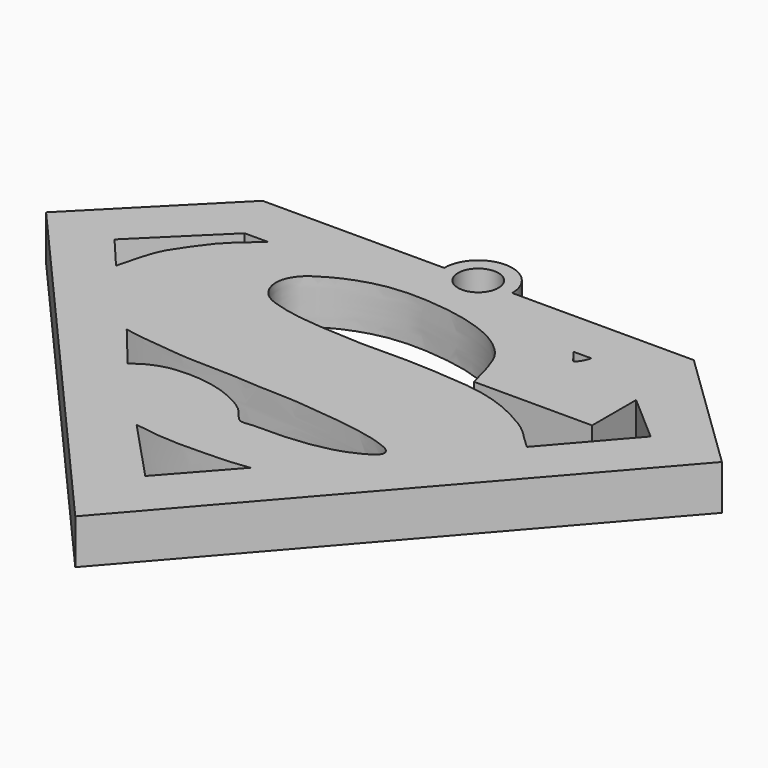
from build123d import *

# Parameters (mm, degrees)
F0_R     = 2.2576267775
F1_DEPTH = 5


with BuildPart() as f1:
    # F0 (on Top) → F1 (new body)
    with BuildSketch(Plane.XY):
        with BuildLine():
            Line((6.2416201977, 31.5617248416), (-14.0290652746, 31.5617248416))
            Line((-14.0290652746, 31.5617248416), (-27.4120289832, 18.0726386607))
            Line((-27.4120289832, 18.0726386607), (10.4407984763, -25.1697301865))
            Line((10.4407984763, -25.1697301865), (48.0529391432, 18.0726386607))
            Line((48.0529391432, 18.0726386607), (34.1237597167, 31.5617248416))
            Line((34.1237597167, 31.5617248416), (13.8530742445, 31.5617248416))
            ThreePointArc((13.8530742445, 31.5617248416), (10.0473472211, 35.367451865), (6.2416201977, 31.5617248416))
        make_face()
        with BuildLine():
            Line((10.4495981851, -15.4107843611), (3.8024990354, -8.3144679666))
            add(Edge.make_bspline(
                [(3.8024990354, -8.3144679666), (4.5388525479, -8.4434853788), (6.0017466244, -8.6998008645), (8.1808015913, -8.8204010529), (10.3603455405, -8.8738762452), (12.6471237286, -8.7657708903), (14.9715595522, -8.6928871388), (16.1087283844, -8.5376584101), (16.62851125, -8.4667056799)],
                knots=[0, 0, 0, 0, 0.1703340878, 0.3383982337, 0.5062689985, 0.6799633985, 0.8537160559, 1, 1, 1, 1], degree=3))
            Line((16.62851125, -8.4667056799), (10.4495981851, -15.4107843611))
        make_face(mode=Mode.SUBTRACT)
        with BuildLine():
            Line((-4.0244182257, 0.2222545096), (-8.1030912697, 5.1917787641))
            add(Edge.make_bspline(
                [(-4.0244182257, 0.2222545096), (-3.625658189, 0.5142425509), (-2.786447975, 1.1287458211), (-1.0438231936, 1.8265306525), (0.7796151068, 1.9863799527), (2.5631386429, 1.9826181285), (4.9769877547, 1.5871011918), (7.0085701539, 0.761001999), (9.1115561882, -0.4117692093), (10.2123278392, -2.3795693923), (11.6429532771, -2.0179142677), (13.8251670703, -2.1139244116), (16.6814734453, -1.9699325305), (19.4763866153, -1.5199292102), (21.3487185777, -0.9547792768), (23.1248059754, -0.0926462771), (24.1694847672, 0.7178249148), (23.8751481027, 1.6259996326), (22.5116239347, 2.1768508565), (20.4553720533, 2.7899755773), (17.8890842369, 3.1437375086), (15.9958690356, 3.4237094736), (13.4017905981, 3.5924153589), (11.8439583619, 3.8853753382), (8.4735381437, 3.8498269187), (6.127624439, 4.1486578732), (3.1704436033, 4.1857612974), (1.2352043919, 4.2815037412), (-1.1502078474, 4.2706620326), (-2.9236947786, 4.5924437407), (-5.9247929393, 4.7919012508), (-7.4116149528, 5.0648421429), (-8.1030912697, 5.1917787641)],
                knots=[0, 0, 0, 0, 0.0285870786, 0.0601629205, 0.0913262945, 0.1223715851, 0.1583285576, 0.1929466016, 0.2290428932, 0.2615889441, 0.2871650266, 0.3213743991, 0.3611925572, 0.4001331492, 0.4327134867, 0.465511224, 0.4904782274, 0.5098646056, 0.5370482348, 0.5716662781, 0.6087840215, 0.6415826541, 0.6780585629, 0.7080712428, 0.7497700391, 0.7866937351, 0.8258395561, 0.8587737281, 0.8937346116, 0.9254413223, 0.9653249956, 1, 1, 1, 1], degree=3))
        make_face(mode=Mode.SUBTRACT)
        with BuildLine():
            Line((-16.3511764258, 14.0089178458), (-19.5537097752, 17.8035162389))
            Line((-19.5537097752, 17.8035162389), (-11.4262718707, 25.7963947952))
            Line((-11.4262718707, 25.7963947952), (-8.8158035651, 25.7963947952))
            add(Edge.make_bspline(
                [(-8.8158035651, 25.7963947952), (-9.3488613218, 25.3430988782), (-10.4352856578, 24.4192370464), (-12.1424780218, 22.8053627528), (-13.3220857636, 21.1630094294), (-14.905105684, 18.9483248498), (-15.6122148319, 16.9733115582), (-16.0901476759, 15.056052083), (-16.3511764258, 14.0089178458)],
                knots=[0, 0, 0, 0, 0.1580633229, 0.3221486573, 0.4778136005, 0.653584254, 0.8108008891, 1, 1, 1, 1], degree=3))
        make_face(mode=Mode.SUBTRACT)
        with Locations((10.0473472211, 31.5617248416)):
            Circle(F0_R, mode=Mode.SUBTRACT)
        with BuildLine():
            Line((34.9029637873, 16.3932777941), (34.9029637873, 22.5380454212))
            Line((34.9029637873, 22.5380454212), (40.1889090877, 17.9403389704))
            Line((40.1889090877, 17.9403389704), (32.9911380048, 9.6651207423))
            add(Edge.make_bspline(
                [(21.7173155397, 16.3932777941), (21.633658482, 16.7414224911), (21.4325995016, 17.5781435005), (20.7875471199, 19.844958704), (19.9788354707, 21.7437591395), (18.260415103, 23.2418628334), (16.5912685479, 24.1861831122), (14.6715829124, 24.8773880597), (12.5371112605, 25.4339884136), (10.3228330993, 25.7196616801), (8.2696282036, 25.8909786244), (6.6273850691, 25.8916584449), (4.2095493548, 25.6981604375), (1.7289573601, 24.9599615814), (0.0154394962, 24.2119437998), (-1.3668529894, 23.4203554787), (-2.6217371087, 22.5607800789), (-3.5315941175, 21.032944398), (-3.493504558, 19.3201589904), (-2.4361340124, 17.6174817053), (-0.2220439193, 16.8757122661), (2.4030601087, 16.3170412667), (5.8920938844, 16.0586014998), (10.2285420637, 15.8120766263), (14.3169673141, 15.9742130999), (18.2003782442, 15.7616454718), (23.0387254828, 15.4526126587), (26.3020251149, 14.4110358307), (28.5292958006, 13.3164945696), (30.6255789149, 12.0714926154), (32.0218870492, 10.534071043), (32.6950954228, 9.9305280542), (32.9911380048, 9.6651207423)],
                knots=[0, 0, 0, 0, 0.0237772484, 0.0571455589, 0.0887937984, 0.1211278777, 0.1513708642, 0.1823442854, 0.2147961721, 0.2476186194, 0.2786485216, 0.3065234311, 0.3404224699, 0.3757693845, 0.4055749079, 0.432824509, 0.4595869888, 0.4879601221, 0.5158377145, 0.5454842581, 0.5781079745, 0.6138273891, 0.6546641851, 0.7003726608, 0.7443609462, 0.7876681578, 0.8357502087, 0.8760206998, 0.9101279972, 0.9441647578, 0.9754465186, 1, 1, 1, 1], degree=3))
            Line((21.7173155397, 16.3932777941), (34.9029637873, 16.3932777941))
        make_face(mode=Mode.SUBTRACT)
        with BuildLine():
            Line((26.0339379311, 24.831302464), (24.9458029866, 26.2394789606))
            Line((24.9458029866, 26.2394789606), (26.9300509244, 26.2394789606))
            add(Edge.make_bspline(
                [(26.0339379311, 24.831302464), (26.350563392, 24.9053798616), (26.7106089741, 25.4094433039), (26.9300509244, 26.2394789606)],
                knots=[0, 0, 0, 0, 1.6691253825, 1.6691253825, 1.6691253825, 1.6691253825], degree=3))
        make_face(mode=Mode.SUBTRACT)
    extrude(amount=F1_DEPTH)


solid = f1.part
